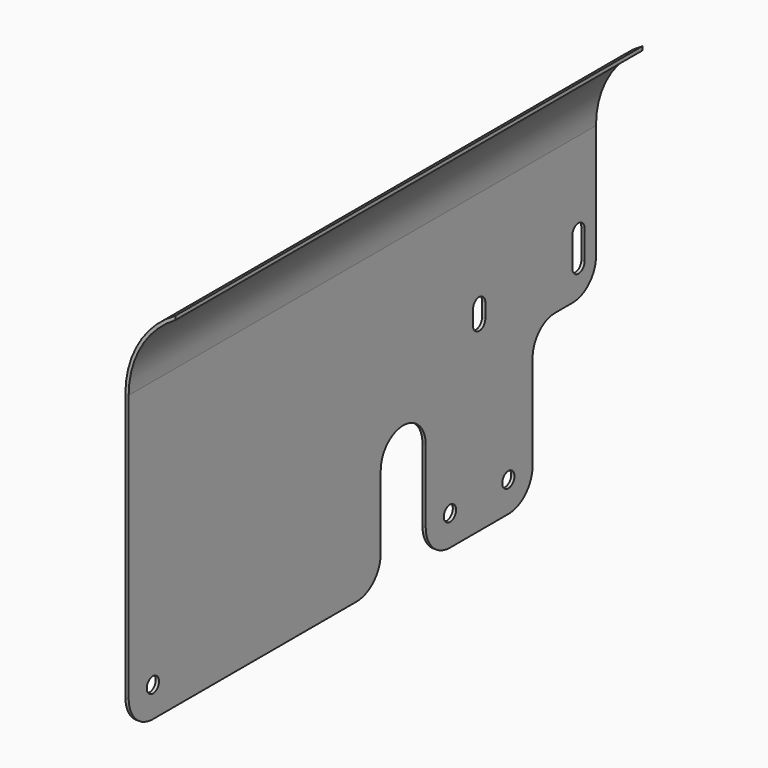
from build123d import *

# Parameters (mm, degrees)
F2_DEPTH = 800
F1_R     = 10.5
F3_DEPTH = 25


with BuildPart() as f2:
    # F0 (on Front) → F2 (new body)
    with BuildSketch(Plane.XZ):
        with BuildLine():
            Line((68.35, 111.454105), (68.35, 116.640763))
            ThreePointArc((68.35, 116.640763), (18.346229, 67.595839), (0, 0))
            Line((0, 0), (4.5, 0))
            ThreePointArc((4.5, 0), (21.593221, 64.223905), (68.35, 111.454105))
        make_face()
        Polygon((4.5, 0), (0, 0), (0, -365.8), (0, -407.3), (4.5, -407.3), align=None)
    extrude(amount=-F2_DEPTH)

    # F1 (on Right) → F3 (cut)
    with BuildSketch(Plane.YZ):
        with BuildLine():
            ThreePointArc((431.5, -365.8), (419.344931, -395.144931), (390, -407.3))
            Line((390, -407.3), (550, -407.3))
            ThreePointArc((550, -407.3), (520.655069, -395.144931), (508.5, -365.8))
            Line((508.5, -365.8), (508.5, -265.8))
            ThreePointArc((508.5, -265.8), (470, -227.3), (431.5, -265.8))
            Line((431.5, -265.8), (431.5, -365.8))
        make_face()
        with BuildLine():
            Line((800, -407.3), (800, -157.3))
            ThreePointArc((800, -157.3), (788.284271, -185.584271), (760, -197.3))
            Line((760, -197.3), (730, -197.3))
            ThreePointArc((730, -197.3), (702.776389, -208.576389), (691.5, -235.8))
            Line((691.5, -235.8), (691.5, -365.8))
            ThreePointArc((691.5, -365.8), (679.344931, -395.144931), (650, -407.3))
            Line((650, -407.3), (800, -407.3))
        make_face()
        with BuildLine():
            ThreePointArc((41.5, -407.3), (12.155069, -395.144931), (0, -365.8))
            Line((0, -365.8), (0, -407.3))
            Line((0, -407.3), (41.5, -407.3))
        make_face()
        with Locations((41.5, -365.8)):
            Circle(F1_R)
        with BuildLine():
            ThreePointArc((780.5, -115.8), (770, -105.3), (759.5, -115.8))
            Line((759.5, -115.8), (759.5, -155.8))
            ThreePointArc((759.5, -155.8), (770, -166.3), (780.5, -155.8))
            Line((780.5, -155.8), (780.5, -115.8))
        make_face()
        with BuildLine():
            ThreePointArc((610.5, -135.8), (600, -125.3), (589.5, -135.8))
            Line((589.5, -135.8), (589.5, -155.8))
            ThreePointArc((589.5, -155.8), (600, -166.3), (610.5, -155.8))
            Line((610.5, -155.8), (610.5, -135.8))
        make_face()
        with Locations((650, -365.8)):
            Circle(F1_R)
        with Locations((550, -365.8)):
            Circle(F1_R)
    extrude(amount=F3_DEPTH, mode=Mode.SUBTRACT)


solid = f2.part
